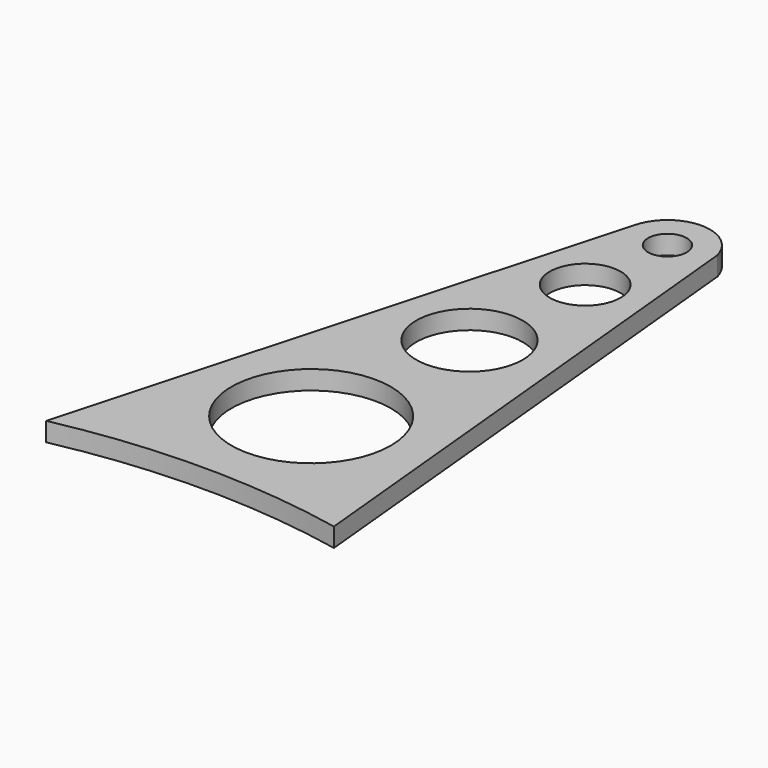
from build123d import *

# Parameters (mm, degrees)
F0_R     = 21.06
F0_R_2   = 14.065
F0_R_3   = 9.375
F0_R_4   = 5.1
F1_DEPTH = 5


with BuildPart() as f1:
    # F0 (on Top) → F1 (new body)
    with BuildSketch(Plane.XY):
        with BuildLine():
            Line((24.799901, -141.166535), (10.836995, 3.020271))
            ThreePointArc((10.836995, 3.020271), (0, 11.25), (-10.836995, 3.020271))
            Line((-10.836995, 3.020271), (-51.084308, -141.39059))
            ThreePointArc((-51.084308, -141.39059), (-13.153657, -137.399477), (24.799901, -141.166535))
        make_face()
        with Locations((-9.676614, -105.59756)):
            Circle(F0_R, mode=Mode.SUBTRACT)
        with Locations((-5.376252, -58.669184)):
            Circle(F0_R_2, mode=Mode.SUBTRACT)
        with Locations((-2.233451, -24.372881)):
            Circle(F0_R_3, mode=Mode.SUBTRACT)
        Circle(F0_R_4, mode=Mode.SUBTRACT)
        with BuildLine():
            Line((24.799901, -141.166535), (10.836995, 3.020271))
            ThreePointArc((10.836995, 3.020271), (0, 11.25), (-10.836995, 3.020271))
            Line((-10.836995, 3.020271), (-51.084308, -141.39059))
            ThreePointArc((-51.084308, -141.39059), (-13.153657, -137.399477), (24.799901, -141.166535))
        make_face()
        with Locations((-9.676614, -105.59756)):
            Circle(F0_R, mode=Mode.SUBTRACT)
        with Locations((-5.376252, -58.669184)):
            Circle(F0_R_2, mode=Mode.SUBTRACT)
        with Locations((-2.233451, -24.372881)):
            Circle(F0_R_3, mode=Mode.SUBTRACT)
        Circle(F0_R_4, mode=Mode.SUBTRACT)
    extrude(amount=F1_DEPTH)


solid = f1.part
